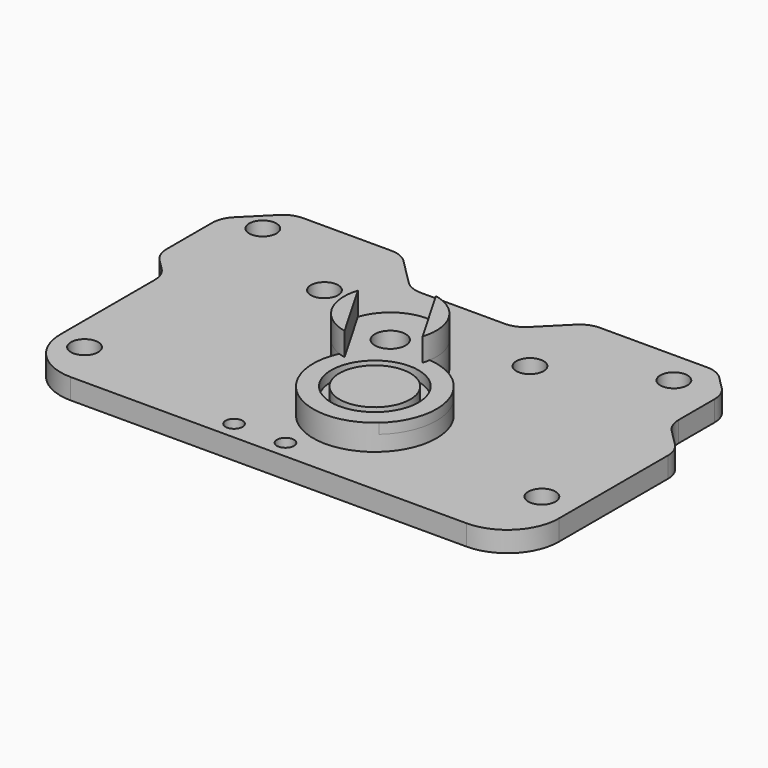
from build123d import *

# Parameters (mm, degrees)
SKETCH_R        = 12
SKETCH_R_2      = 8.5
PAD_DEPTH       = 2
SKETCH001_R     = 8.5
SKETCH001_R_2   = 3
PAD001_DEPTH    = 5
SKETCH002_R     = 8.5
PAD002_DEPTH    = 3
SKETCH003_R     = 6.9
PAD003_DEPTH    = 2
PAD004_DEPTH    = 4.5
SKETCH006_R     = 3
POCKET_DEPTH    = 5
SKETCH005_R     = 2.65
PAD005_DEPTH    = 4
POCKET001_DEPTH = 5
SKETCH010_R     = 1.65
POCKET002_DEPTH = 4.001
FILLET_R        = 10
FILLET001_R     = 5
FILLET002_R     = 5


with BuildPart() as part:
    # Sketch → Pad (new body)
    with BuildSketch(Plane.XY):
        with Locations((4, 0)):
            Circle(SKETCH_R)
        with Locations((4, 0)):
            Circle(SKETCH_R_2, mode=Mode.SUBTRACT)
    extrude(amount=PAD_DEPTH)

    # Sketch001 (on Face4 of Pad) → Pad001 (join)
    with BuildSketch(Plane.XY.offset(2)):
        with BuildLine():
            ThreePointArc((-6.910313, 4.996507), (10, -10.392305), (5.128054, 11.946861))
            ThreePointArc((5.128054, 11.946861), (-8.25, 21.217622), (-6.910313, 4.996507))
        make_face()
        with Locations((4, 0)):
            Circle(SKETCH001_R, mode=Mode.SUBTRACT)
        with Locations((-3.75, 13.423394)):
            Circle(SKETCH001_R_2, mode=Mode.SUBTRACT)
    extrude(amount=-PAD001_DEPTH)

    # Sketch002 (on Face6 of Pad001) → Pad002 (join)
    with BuildSketch(Plane(origin=(0, 0, -3), x_dir=(1, 0, 0), z_dir=(0, 0, -1))):
        with Locations((4, 0)):
            Circle(SKETCH002_R)
    extrude(amount=-PAD002_DEPTH)

    # Sketch003 (on Face11 of Pad002) → Pad003 (join)
    with BuildSketch(Plane.XY):
        with Locations((4, 0)):
            Circle(SKETCH003_R)
    extrude(amount=PAD003_DEPTH)

    # Sketch004 (on Face7 of Pad003) → Pad004 (join)
    with BuildSketch(Plane.XY.offset(2)):
        with BuildLine():
            Line((-12.300254, 16.232869), (-5.59205, 4.613919))
            ThreePointArc((-12.300254, 16.232869), (-11.544229, 8.923394), (-5.59205, 4.613919))
        make_face()
        with BuildLine():
            Line((4.800254, 10.613919), (-1.90795, 22.232869))
            ThreePointArc((4.800254, 10.613919), (4.044229, 17.923394), (-1.90795, 22.232869))
        make_face()
    extrude(amount=PAD004_DEPTH)

    # Sketch006 → Pocket (cut)
    with BuildSketch(Plane.XY.offset(-3)):
        with Locations((-3.75, 13.423394)):
            Circle(SKETCH006_R)
    extrude(amount=-POCKET_DEPTH, mode=Mode.SUBTRACT)

    # Sketch005 (on Face19 of Pad004) → Pad005 (join)
    with BuildSketch(Plane.XY.offset(-3)):
        Polygon((-50, -19), (47, -19), (47, 16), (47, 19.612766), (40.954486, 25.65828), (40.954486, 38.553597), (35.588654, 43.919429), (10.631642, 43.919429), (2.616306, 35.904092), (-17.846332, 35.904092), (-25.861669, 43.919429), (-47.134287, 43.919429), (-54.927801, 36.125915), (-54.927801, 20.927801), (-50, 16), align=None)
        with Locations((40.5, -5)):
            Circle(SKETCH005_R, mode=Mode.SUBTRACT)
        with Locations((-27.75, 27.423394)):
            Circle(SKETCH005_R, mode=Mode.SUBTRACT)
        with Locations((-47.75, 37.423394)):
            Circle(SKETCH005_R, mode=Mode.SUBTRACT)
        with Locations((32.25, 37.423394)):
            Circle(SKETCH005_R, mode=Mode.SUBTRACT)
        with Locations((12.25, 27.423394)):
            Circle(SKETCH005_R, mode=Mode.SUBTRACT)
        with Locations((-44.5, -10)):
            Circle(SKETCH005_R, mode=Mode.SUBTRACT)
    extrude(amount=-PAD005_DEPTH)

    # Sketch008 (on Face5 of Pad005) → Pocket001 (cut)
    with BuildSketch(Plane(origin=(0, 0, -7), x_dir=(1, 0, 0), z_dir=(0, 0, -1))):
        Polygon((-6.75, -8.227241), (-9.75, -13.423394), (-6.75, -18.619546), (-0.75, -18.619546), (2.25, -13.423394), (-0.75, -8.227241), align=None)
    extrude(amount=-POCKET001_DEPTH, mode=Mode.SUBTRACT)

    # Sketch010 (on Face4 of Pocket001) → Pocket002 (cut, through all)
    with BuildSketch(Plane.XY.offset(-3)):
        with Locations((-11, -15.5)):
            Circle(SKETCH010_R)
        with Locations((-1, -15.5)):
            Circle(SKETCH010_R)
    extrude(amount=-POCKET002_DEPTH, mode=Mode.SUBTRACT)

    # Fillet
    fillet_edges = [part.edges().sort_by_distance(p)[0] for p in [
        (-50, -19, -5),
        (47, -19, -5),
    ]]
    fillet(fillet_edges, radius=FILLET_R)

    # Fillet001
    fillet001_edges = [part.edges().sort_by_distance(p)[0] for p in [
        (-54.927801, 20.927801, -5),
        (-50, 16, -5),
        (-54.927801, 36.125915, -5),
        (-47.134287, 43.919429, -5),
    ]]
    fillet(fillet001_edges, radius=FILLET001_R)

    # Fillet002
    fillet002_edges = [part.edges().sort_by_distance(p)[0] for p in [
        (-25.861669, 43.919429, -5),
        (-17.846332, 35.904092, -5),
        (2.616306, 35.904092, -5),
        (10.631642, 43.919429, -5),
        (35.588654, 43.919429, -5),
        (40.954486, 38.553597, -5),
        (40.954486, 25.65828, -5),
        (47, 19.612766, -5),
    ]]
    fillet(fillet002_edges, radius=FILLET002_R)


solid = part.part
